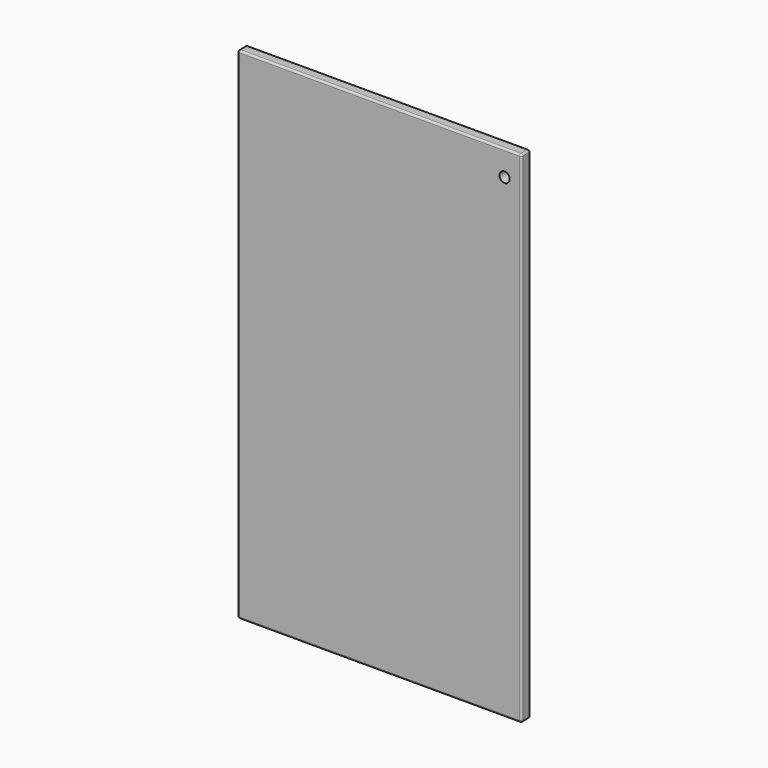
from build123d import *

# Parameters (mm, degrees)
F0_W     = 482.6
F0_H     = 850.9
F1_DEPTH = 19.05
F2_R     = 8.73125
F3_DEPTH = 19.051
F4_R     = 17.5
F5_DEPTH = 13.97
F6_R     = 3.175


with BuildPart() as f1:
    # F0 (on Front) → F1 (new body)
    with BuildSketch(Plane.XZ):
        Rectangle(F0_W, F0_H)
    extrude(amount=F1_DEPTH)

    # F2 (on face) → F3 (cut, through all)
    with BuildSketch(Plane.XZ.offset(19.05)):
        with Locations((212.725, 382.5875)):
            Circle(F2_R)
    extrude(amount=-F3_DEPTH, mode=Mode.SUBTRACT)

    # F4 (on face) → F5 (cut)
    with BuildSketch(Plane(origin=(0, 0, 0), x_dir=(-1, 0, 0), z_dir=(0, 1, 0))):
        with Locations((220.6625, 349.25)):
            Circle(F4_R)
        with Locations((220.6625, -349.25)):
            Circle(F4_R)
    extrude(amount=-F5_DEPTH, mode=Mode.SUBTRACT)

    # F6
    f6_edges = [f1.edges().sort_by_distance(p)[0] for p in [
        (0, -19.05, 425.45),
        (-241.3, -19.05, 0),
        (0, -19.05, -425.45),
        (241.3, -19.05, 0),
        (0, 0, 425.45),
        (241.3, 0, 0),
        (0, 0, -425.45),
        (-241.3, 0, 0),
        (-241.3, -9.525, 425.45),
        (241.3, -9.525, 425.45),
        (241.3, -9.525, -425.45),
        (-241.3, -9.525, -425.45),
    ]]
    fillet(f6_edges, radius=F6_R)


solid = f1.part
